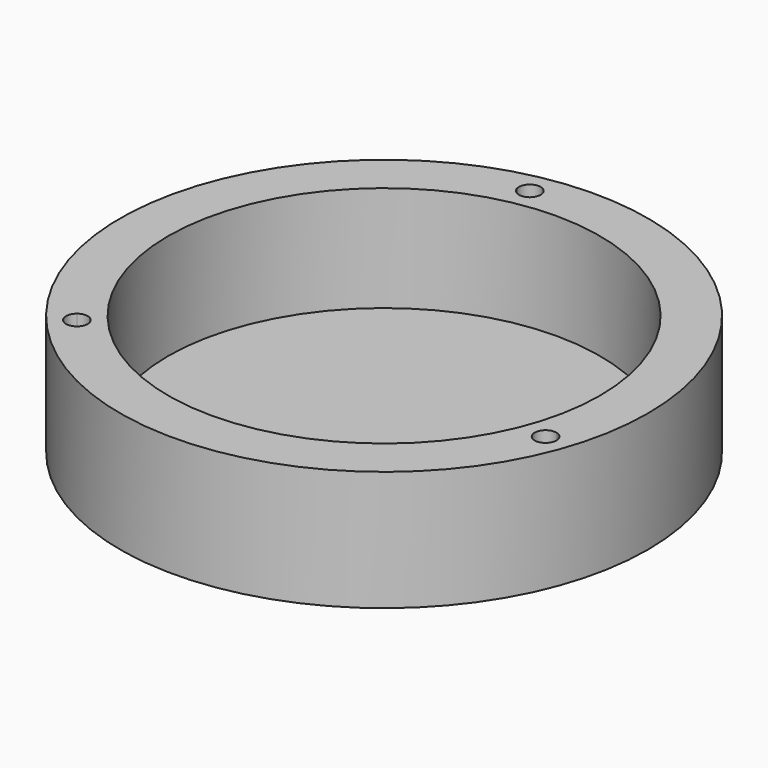
from build123d import *

# Parameters (mm, degrees)
F0_R     = 55
F0_R_2   = 45
F1_DEPTH = 22
F2_DEPTH = 3


with BuildPart() as f1:
    # F0 (on Top) → F1 (new body)
    with BuildSketch(Plane.XY):
        Circle(F0_R)
        with BuildLine():
            ThreePointArc((-6.7686770228, 49.539731644), (32.8752653895, 37.6724956111), (50, 0))
            ThreePointArc((50, 0), (49.4467404253, -7.417537416), (47.7992055473, -14.6709218881))
            ThreePointArc((47.7992055473, -14.6709218881), (48.9151264842, -15.489568044), (49.3407844988, -16.8064872976))
            ThreePointArc((49.3407844988, -16.8064872976), (48.3663226704, -18.6599981211), (46.2870046118, -18.9080195703))
            ThreePointArc((46.2870046118, -18.9080195703), (8.9905473014, -49.1850593089), (-36.6049938257, -34.0598653406))
            ThreePointArc((-36.6049938257, -34.0598653406), (-39.8147478714, -33.8356077519), (-39.518327589, -30.6317120738))
            ThreePointArc((-39.518327589, -30.6317120738), (-47.0907844988, 16.8064872976), (-11.1942117216, 48.7307872287))
            ThreePointArc((-11.1942117216, 48.7307872287), (-9.3951219299, 51.3983869778), (-6.7686770228, 49.539731644))
        make_face(mode=Mode.SUBTRACT)
        with BuildLine():
            ThreePointArc((47.7992055473, -14.6709218881), (49.4467404253, -7.417537416), (50, 0))
            ThreePointArc((50, 0), (32.8752653895, 37.6724956111), (-6.7686770228, 49.539731644))
            ThreePointArc((-6.7686770228, 49.539731644), (-6.7475907562, 49.3629523572), (-6.7405473014, 49.1850593089))
            ThreePointArc((-6.7405473014, 49.1850593089), (-8.7622327657, 46.9466731776), (-11.1942117216, 48.7307872287))
            ThreePointArc((-11.1942117216, 48.7307872287), (-47.0907844988, 16.8064872976), (-39.518327589, -30.6317120738))
            ThreePointArc((-39.518327589, -30.6317120738), (-37.1328188239, -30.3471681395), (-35.8502371975, -32.3785720114))
            ThreePointArc((-35.8502371975, -32.3785720114), (-36.0475806765, -33.3000388891), (-36.6049938257, -34.0598653406))
            ThreePointArc((-36.6049938257, -34.0598653406), (8.9905473014, -49.1850593089), (46.2870046118, -18.9080195703))
            ThreePointArc((46.2870046118, -18.9080195703), (44.9716991964, -16.0501953692), (47.7992055473, -14.6709218881))
        make_face()
        Circle(F0_R_2, mode=Mode.SUBTRACT)
    extrude(amount=F1_DEPTH)

    # F0 (on Top) → F2 (join)
    with BuildSketch(Plane.XY):
        Circle(F0_R)
        with BuildLine():
            ThreePointArc((-6.7686770228, 49.539731644), (32.8752653895, 37.6724956111), (50, 0))
            ThreePointArc((50, 0), (49.4467404253, -7.417537416), (47.7992055473, -14.6709218881))
            ThreePointArc((47.7992055473, -14.6709218881), (48.9151264842, -15.489568044), (49.3407844988, -16.8064872976))
            ThreePointArc((49.3407844988, -16.8064872976), (48.3663226704, -18.6599981211), (46.2870046118, -18.9080195703))
            ThreePointArc((46.2870046118, -18.9080195703), (8.9905473014, -49.1850593089), (-36.6049938257, -34.0598653406))
            ThreePointArc((-36.6049938257, -34.0598653406), (-39.8147478714, -33.8356077519), (-39.518327589, -30.6317120738))
            ThreePointArc((-39.518327589, -30.6317120738), (-47.0907844988, 16.8064872976), (-11.1942117216, 48.7307872287))
            ThreePointArc((-11.1942117216, 48.7307872287), (-9.3951219299, 51.3983869778), (-6.7686770228, 49.539731644))
        make_face(mode=Mode.SUBTRACT)
        with BuildLine():
            ThreePointArc((47.7992055473, -14.6709218881), (49.4467404253, -7.417537416), (50, 0))
            ThreePointArc((50, 0), (32.8752653895, 37.6724956111), (-6.7686770228, 49.539731644))
            ThreePointArc((-6.7686770228, 49.539731644), (-6.7475907562, 49.3629523572), (-6.7405473014, 49.1850593089))
            ThreePointArc((-6.7405473014, 49.1850593089), (-8.7622327657, 46.9466731776), (-11.1942117216, 48.7307872287))
            ThreePointArc((-11.1942117216, 48.7307872287), (-47.0907844988, 16.8064872976), (-39.518327589, -30.6317120738))
            ThreePointArc((-39.518327589, -30.6317120738), (-37.1328188239, -30.3471681395), (-35.8502371975, -32.3785720114))
            ThreePointArc((-35.8502371975, -32.3785720114), (-36.0475806765, -33.3000388891), (-36.6049938257, -34.0598653406))
            ThreePointArc((-36.6049938257, -34.0598653406), (8.9905473014, -49.1850593089), (46.2870046118, -18.9080195703))
            ThreePointArc((46.2870046118, -18.9080195703), (44.9716991964, -16.0501953692), (47.7992055473, -14.6709218881))
        make_face()
        Circle(F0_R_2, mode=Mode.SUBTRACT)
        Circle(F0_R_2)
    extrude(amount=-F2_DEPTH)


solid = f1.part
